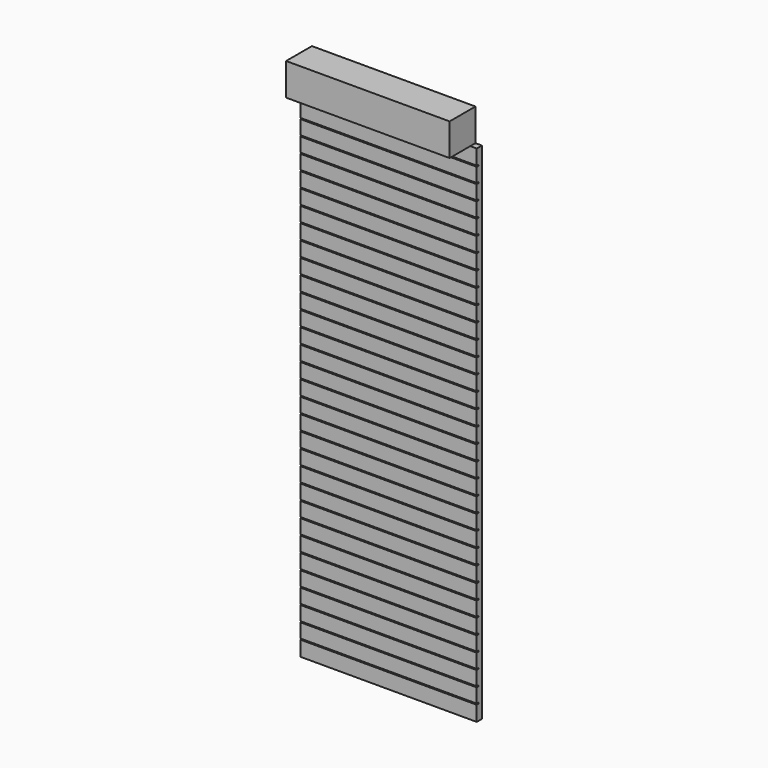
from build123d import *

# Parameters (mm, degrees)
F0_W     = 19.304
F0_H     = 59.5884
F1_DEPTH = 0.762
F2_W     = 0.762
F2_H     = 59.5884
F3_DEPTH = 0.762
F4_W     = 19.304
F4_H     = 3.81
F5_DEPTH = 3.81
F6_W     = 20.828
F6_H     = 0.127
F7_DEPTH = 0.254


with BuildPart() as f1:
    # F0 (on Front) → F1 (new body)
    with BuildSketch(Plane.XZ):
        with Locations((0, 29.7942)):
            Rectangle(F0_W, F0_H)
    extrude(amount=F1_DEPTH)

    # F2 (on Front) → F3 (join)
    with BuildSketch(Plane.XZ):
        with Locations((-10.033, 29.7942)):
            Rectangle(F2_W, F2_H)
        with Locations((10.033, 29.7942)):
            Rectangle(F2_W, F2_H)
    extrude(amount=F3_DEPTH)

    # F4 (on Front) → F5 (join)
    with BuildSketch(Plane.XZ):
        with Locations((0, 61.4934)):
            Rectangle(F4_W, F4_H)
    extrude(amount=F5_DEPTH)

    # F6 (on face) → F7 (cut)
    with BuildSketch(Plane.XZ.offset(0.762)):
        with Locations((0, 1.8415)):
            Rectangle(F6_W, F6_H)
        with Locations((0, 3.6449)):
            Rectangle(F6_W, F6_H)
        with Locations((0, 5.4483)):
            Rectangle(F6_W, F6_H)
        with Locations((0, 7.2517)):
            Rectangle(F6_W, F6_H)
        with Locations((0, 9.0551)):
            Rectangle(F6_W, F6_H)
        with Locations((0, 10.8585)):
            Rectangle(F6_W, F6_H)
        with Locations((0, 12.6619)):
            Rectangle(F6_W, F6_H)
        with Locations((0, 14.4653)):
            Rectangle(F6_W, F6_H)
        with Locations((0, 16.2687)):
            Rectangle(F6_W, F6_H)
        with Locations((0, 18.0721)):
            Rectangle(F6_W, F6_H)
        with Locations((0, 19.8755)):
            Rectangle(F6_W, F6_H)
        with Locations((0, 21.6789)):
            Rectangle(F6_W, F6_H)
        with Locations((0, 23.4823)):
            Rectangle(F6_W, F6_H)
        with Locations((0, 25.2857)):
            Rectangle(F6_W, F6_H)
        with Locations((0, 27.0891)):
            Rectangle(F6_W, F6_H)
        with Locations((0, 28.8925)):
            Rectangle(F6_W, F6_H)
        with Locations((0, 30.6959)):
            Rectangle(F6_W, F6_H)
        with Locations((0, 32.4993)):
            Rectangle(F6_W, F6_H)
        with Locations((0, 34.3027)):
            Rectangle(F6_W, F6_H)
        with Locations((0, 36.1061)):
            Rectangle(F6_W, F6_H)
        with Locations((0, 37.9095)):
            Rectangle(F6_W, F6_H)
        with Locations((0, 39.7129)):
            Rectangle(F6_W, F6_H)
        with Locations((0, 41.5163)):
            Rectangle(F6_W, F6_H)
        with Locations((0, 43.3197)):
            Rectangle(F6_W, F6_H)
        with Locations((0, 45.1231)):
            Rectangle(F6_W, F6_H)
        with Locations((0, 46.9265)):
            Rectangle(F6_W, F6_H)
        with Locations((0, 48.7299)):
            Rectangle(F6_W, F6_H)
        with Locations((0, 50.5333)):
            Rectangle(F6_W, F6_H)
        with Locations((0, 52.3367)):
            Rectangle(F6_W, F6_H)
        with Locations((0, 54.1401)):
            Rectangle(F6_W, F6_H)
        with Locations((0, 55.9435)):
            Rectangle(F6_W, F6_H)
        with Locations((0, 57.7469)):
            Rectangle(F6_W, F6_H)
    extrude(amount=-F7_DEPTH, mode=Mode.SUBTRACT)


solid = f1.part
